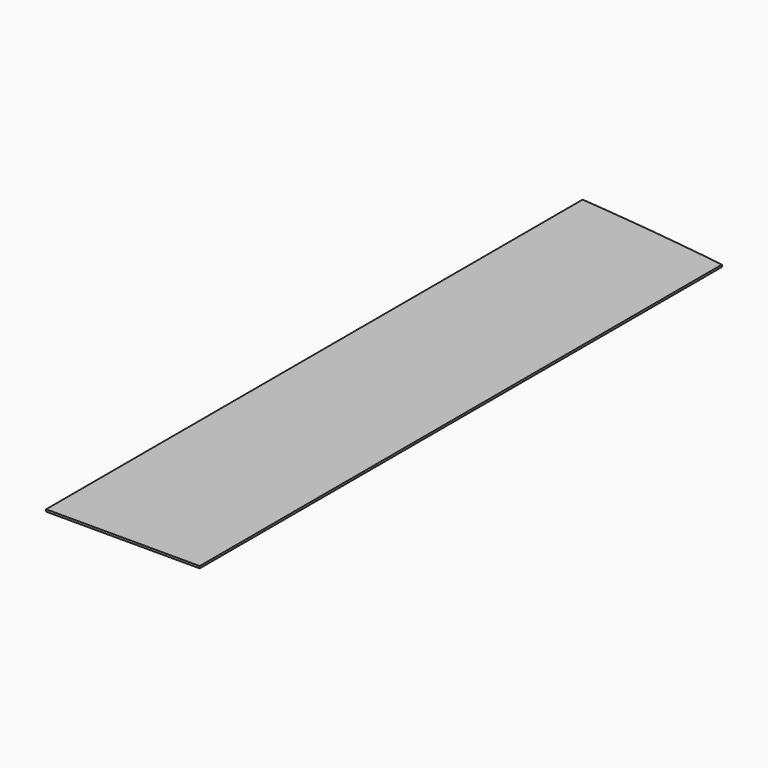
from build123d import *

# Parameters (mm, degrees)
F1_DEPTH = 25.4


with BuildPart() as f1:
    # F0 (on Top) → F1 (new body)
    with BuildSketch(Plane.XY):
        with BuildLine():
            Line((-966.889293, 2120.155322), (-966.889293, -5975.078678))
            Line((-966.889293, -5975.078678), (-39.789293, -5975.078678))
            Line((-39.789293, -5975.078678), (-39.789293, 2024.905322))
            ThreePointArc((-39.789293, 2024.905322), (-503.014781, 2075.688904), (-966.889293, 2120.155322))
        make_face()
        with BuildLine():
            Line((-39.789293, 2024.905322), (-39.789293, -5975.078678))
            Line((-39.789293, -5975.078678), (887.310707, -5975.078678))
            Line((887.310707, -5975.078678), (887.310707, 1904.001322))
            ThreePointArc((887.310707, 1904.001322), (424.173934, 1967.621971), (-39.789293, 2024.905322))
        make_face()
    extrude(amount=F1_DEPTH)


solid = f1.part
